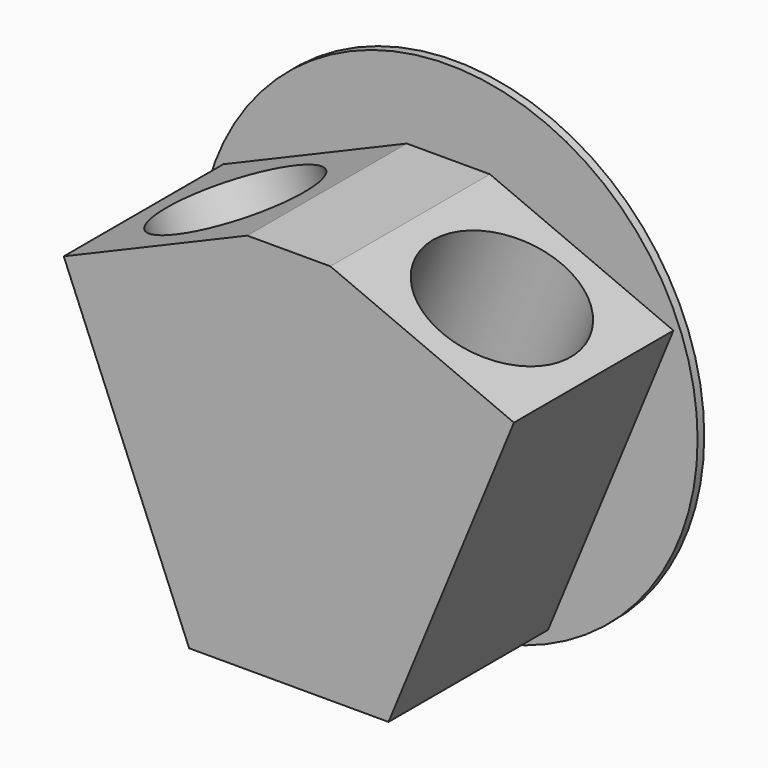
from build123d import *

# Parameters (mm, degrees)
F1_DEPTH = 12
F3_D     = 9
F3_DEPTH = 12
F3_TIP   = 2.7038727856
F5_D     = 9
F5_DEPTH = 12
F5_TIP   = 2.7038727856
F7_D     = 9
F7_DEPTH = 12
F7_TIP   = 2.7038727856
F8_R     = 15
F9_DEPTH = 0.5


with BuildPart() as f1:
    # F0 (on Front) → F1 (new body)
    with BuildSketch(Plane.XZ):
        Polygon((2.5, 23), (0, 23), (-2.5, 23), (-13.5460582414, 18.3112264581), (-6, 0), (0, 0), (6, 0), (13.5460582414, 18.3112264581), align=None)
    extrude(amount=F1_DEPTH)

    # F3
    with Locations(Plane(origin=(0, 0, 0), x_dir=(1, 0, 0), z_dir=(0, 0, -1))):
        with Locations((0, 6)):
            Hole(F3_D / 2, depth=F3_DEPTH)
            with Locations((0, 0, -(F3_DEPTH + F3_TIP / 2))):  # 118° drill point
                Cone(0, F3_D / 2, F3_TIP, mode=Mode.SUBTRACT)

    # F5
    with Locations(Plane(origin=(8.6540847408, 0, 20.3877460107), x_dir=(0.9205048535, 0, -0.3907311285), z_dir=(0.3907311285, 0, 0.9205048535))):
        with Locations((-0.6855538216, -6)):
            Hole(F5_D / 2, depth=F5_DEPTH)
            with Locations((0, 0, -(F5_DEPTH + F5_TIP / 2))):  # 118° drill point
                Cone(0, F5_D / 2, F5_TIP, mode=Mode.SUBTRACT)

    # F7
    with Locations(Plane(origin=(-8.6540847408, 0, 20.3877460107), x_dir=(0.9205048535, 0, 0.3907311285), z_dir=(-0.3907311285, 0, 0.9205048535))):
        with Locations((0.6855538216, -6)):
            Hole(F7_D / 2, depth=F7_DEPTH)
            with Locations((0, 0, -(F7_DEPTH + F7_TIP / 2))):  # 118° drill point
                Cone(0, F7_D / 2, F7_TIP, mode=Mode.SUBTRACT)

    # F8 (on face) → F9 (join)
    with BuildSketch(Plane(origin=(0, 0, 0), x_dir=(-1, 0, 0), z_dir=(0, 1, 0))):
        with Locations((0, 13)):
            Circle(F8_R)
    extrude(amount=F9_DEPTH)


solid = f1.part
